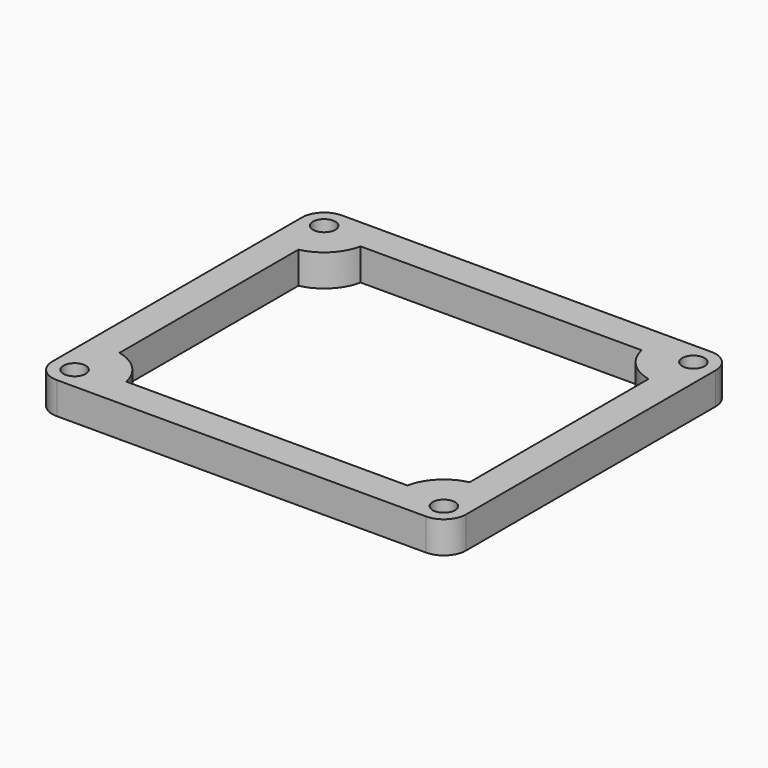
from build123d import *

# Parameters (mm, degrees)
F1_DEPTH = 5
F2_R     = 1.75
F3_DEPTH = 5
F5_DEPTH = 5


with BuildPart() as f1:
    # F0 (on Top) → F1 (new body)
    with BuildSketch(Plane.XY):
        with BuildLine():
            Line((-29, -28), (29, -28))
            ThreePointArc((29, -28), (31.474874, -26.974874), (32.5, -24.5))
            Line((32.5, -24.5), (32.5, 24.5))
            ThreePointArc((32.5, 24.5), (31.474874, 26.974874), (29, 28))
            Line((29, 28), (-29, 28))
            ThreePointArc((-29, 28), (-31.474874, 26.974874), (-32.5, 24.5))
            Line((-32.5, 24.5), (-32.5, -24.5))
            ThreePointArc((-32.5, -24.5), (-31.474874, -26.974874), (-29, -28))
        make_face()
    extrude(amount=F1_DEPTH)

    # F2 (on face) → F3 (cut)
    with BuildSketch(Plane.XY.offset(5)):
        with Locations((-29, 24.5)):
            Circle(F2_R)
        with Locations((29, 24.5)):
            Circle(F2_R)
        with Locations((29, -24.5)):
            Circle(F2_R)
        with Locations((-29, -24.5)):
            Circle(F2_R)
    extrude(amount=-F3_DEPTH, mode=Mode.SUBTRACT)

    # F4 (on face) → F5 (cut)
    with BuildSketch(Plane.XY.offset(5)):
        with BuildLine():
            Line((22.065871, 23), (-22.065871, 23))
            ThreePointArc((-22.065871, 23), (-23.98342, 19.48342), (-27.5, 17.565871))
            Line((-27.5, 17.565871), (-27.5, -17.565871))
            ThreePointArc((-27.5, -17.565871), (-23.98342, -19.48342), (-22.065871, -23))
            Line((-22.065871, -23), (22.065871, -23))
            ThreePointArc((22.065871, -23), (23.98342, -19.48342), (27.5, -17.565871))
            Line((27.5, -17.565871), (27.5, 17.565871))
            ThreePointArc((27.5, 17.565871), (23.98342, 19.48342), (22.065871, 23))
        make_face()
    extrude(amount=-F5_DEPTH, mode=Mode.SUBTRACT)


solid = f1.part
